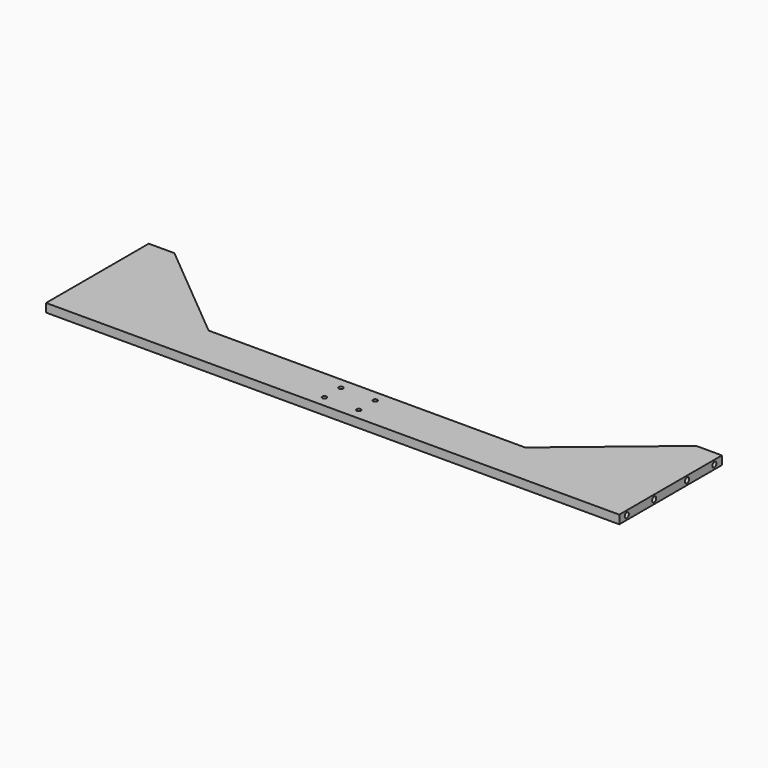
from build123d import *

# Parameters (mm, degrees)
F1_DEPTH = 5
F2_R     = 3
F2_R_2   = 3.175833
F3_DEPTH = 25
F4_R     = 3
F5_DEPTH = 25
F6_R     = 2.5
F7_DEPTH = 10


with BuildPart() as f1:
    # F0 (on Top) → F1 (new body, symmetric)
    with BuildSketch(Plane.XY):
        Polygon((335, -25), (335, 25), (185, 25), (-185, 25), (-335, 25), (-335, -25), align=None)
        Polygon((185, 25), (335, 25), (335, 125), (305, 125), align=None)
        Polygon((-335, 25), (-185, 25), (-305, 125), (-335, 125), align=None)
    extrude(amount=F1_DEPTH, both=True)

    # F2 (on face) → F3 (cut)
    with BuildSketch(Plane.YZ.offset(335)):
        with Locations((26, 0)):
            Circle(F2_R)
        with Locations((-14, 0)):
            Circle(F2_R)
        with Locations((74, 0)):
            Circle(F2_R_2)
        with Locations((114, 0)):
            Circle(F2_R)
    extrude(amount=-F3_DEPTH, mode=Mode.SUBTRACT)

    # F4 (on face) → F5 (cut)
    with BuildSketch(Plane(origin=(-335, 0, 0), x_dir=(0, -1, 0), z_dir=(-1, 0, 0))):
        with Locations((14, 0)):
            Circle(F4_R)
        with Locations((-26, 0)):
            Circle(F4_R)
        with Locations((-74, 0)):
            Circle(F4_R)
        with Locations((-114, 0)):
            Circle(F4_R)
    extrude(amount=-F5_DEPTH, mode=Mode.SUBTRACT)

    # F6 (on face) → F7 (cut)
    with BuildSketch(Plane.XY.offset(5)):
        with Locations((-20, 12)):
            Circle(F6_R)
        with Locations((20, 12)):
            Circle(F6_R)
        with Locations((20, -12)):
            Circle(F6_R)
        with Locations((-20, -12)):
            Circle(F6_R)
    extrude(amount=-F7_DEPTH, mode=Mode.SUBTRACT)


solid = f1.part
